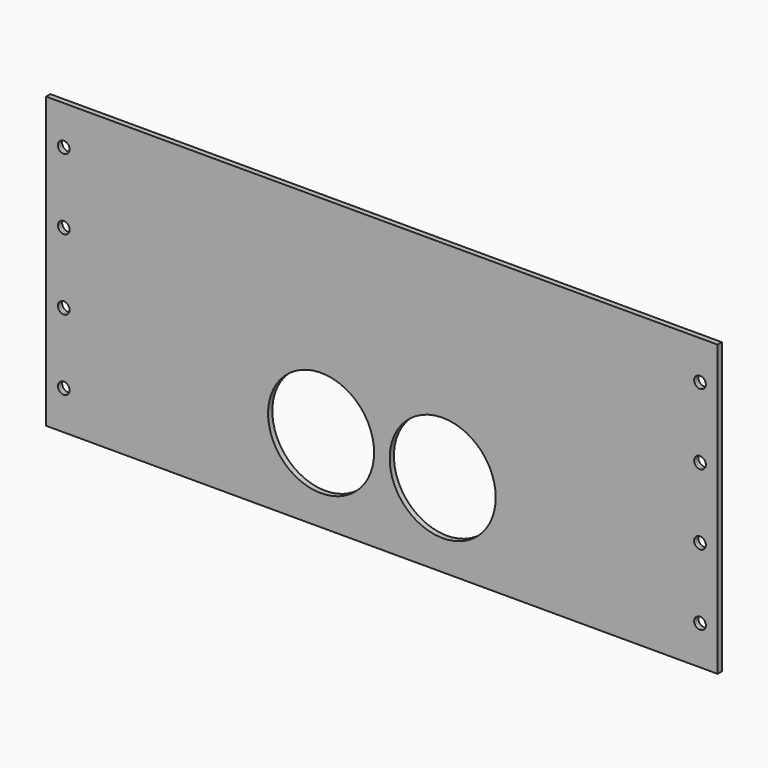
from build123d import *

# Parameters (mm, degrees)
SKETCH_W       = 190
SKETCH_H       = 82
SKETCH_R       = 1.65
PAD_DEPTH      = 0.75
PAD_DEPTH_BACK = 0.75
SKETCH001_R    = 15
POCKET_DEPTH   = 1.501


with BuildPart() as part:
    # Sketch → Pad (new body, two sides)
    with BuildSketch(Plane.XZ) as pad_sk:
        Rectangle(SKETCH_W, SKETCH_H)
        with Locations((90, 30)):
            Circle(SKETCH_R, mode=Mode.SUBTRACT)
        with Locations((90, 10)):
            Circle(SKETCH_R, mode=Mode.SUBTRACT)
        with Locations((90, -30)):
            Circle(SKETCH_R, mode=Mode.SUBTRACT)
        with Locations((90, -10)):
            Circle(SKETCH_R, mode=Mode.SUBTRACT)
        with Locations((-90, 30)):
            Circle(SKETCH_R, mode=Mode.SUBTRACT)
        with Locations((-90, 10)):
            Circle(SKETCH_R, mode=Mode.SUBTRACT)
        with Locations((-90, -30)):
            Circle(SKETCH_R, mode=Mode.SUBTRACT)
        with Locations((-90, -10)):
            Circle(SKETCH_R, mode=Mode.SUBTRACT)
    extrude(amount=PAD_DEPTH)
    extrude(pad_sk.sketch, amount=-PAD_DEPTH_BACK)

    # Sketch001 (on Face14 of Pad) → Pocket (cut, through all)
    with BuildSketch(Plane.XZ.offset(0.75)):
        with Locations((-17.2, -17.5)):
            Circle(SKETCH001_R)
        with Locations((17.2, -17.5)):
            Circle(SKETCH001_R)
    extrude(amount=-POCKET_DEPTH, mode=Mode.SUBTRACT)


solid = part.part
